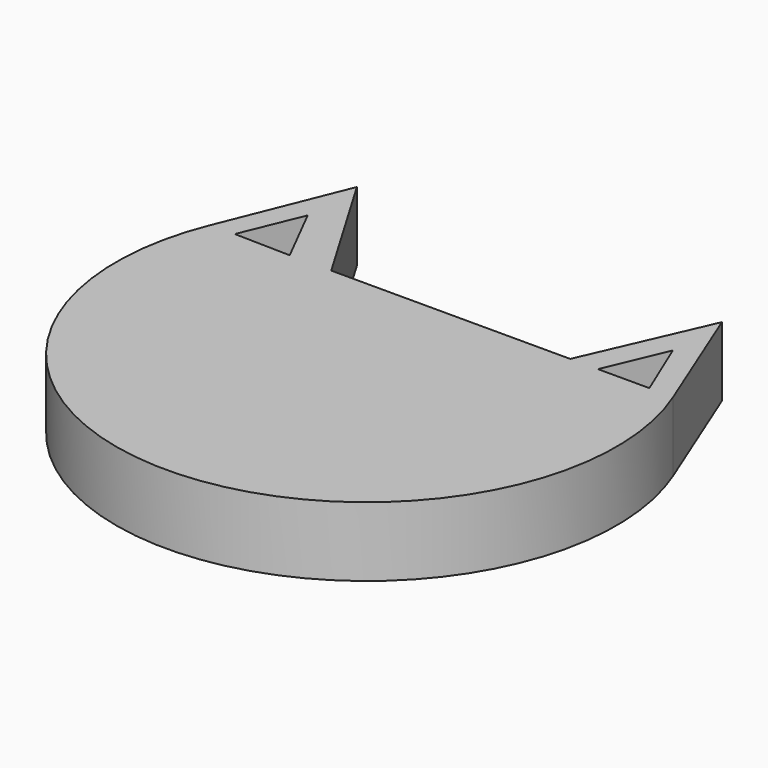
from build123d import *

# Parameters (mm, degrees)
F1_DEPTH = 5
F3_DEPTH = 15
F5_DEPTH = 25


with BuildPart() as f1:
    # F0 (on Top) → F1 (new body)
    with BuildSketch(Plane.XY):
        with BuildLine():
            Line((-13.163356, 15.594428), (-16.72976, 6.733515))
            ThreePointArc((-16.72976, 6.733515), (0, -18.033999), (16.72976, 6.733515))
            Line((16.72976, 6.733515), (13.173763, 15.568571))
            Line((13.173763, 15.568571), (9.308094, 6.733515))
            Line((9.308094, 6.733515), (-7.921782, 6.733515))
            Line((-7.921782, 6.733515), (-13.163356, 15.594428))
        make_face()
    extrude(amount=F1_DEPTH)

    # F2 (on face) → F3 (cut)
    with BuildSketch(Plane.XY.offset(5)):
        Polygon((-13.163356, 11.163971), (-14.946558, 6.822401), (-10.915843, 6.733515), align=None)
    extrude(amount=-F3_DEPTH, mode=Mode.SUBTRACT)

    # F4 (on face) → F5 (cut)
    with BuildSketch(Plane.XY.offset(5)):
        Polygon((13.173763, 11.151043), (11.305694, 6.733515), (15.009284, 6.733515), align=None)
    extrude(amount=-F5_DEPTH, mode=Mode.SUBTRACT)


solid = f1.part
